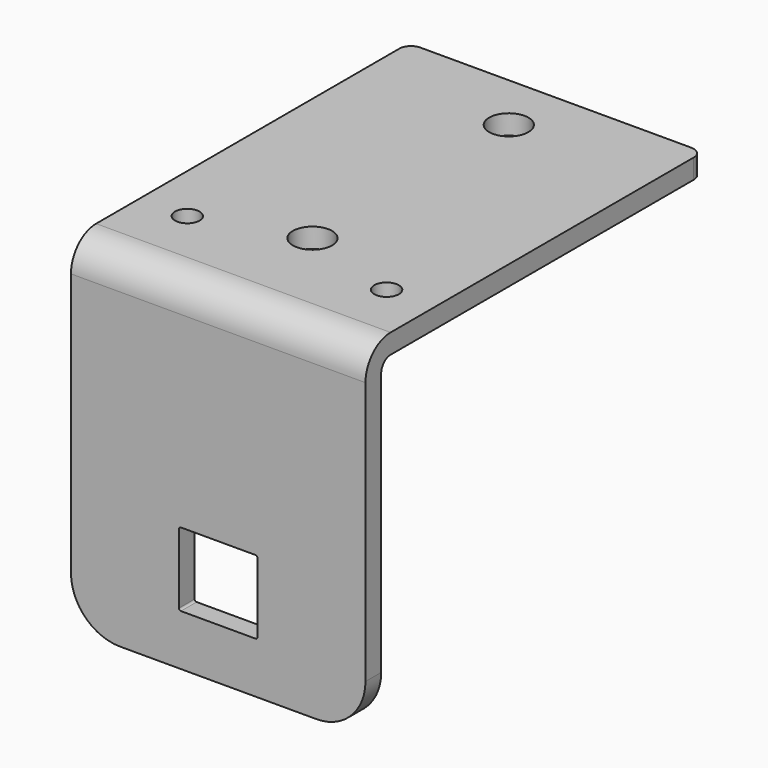
from build123d import *

# Parameters (mm, degrees)
F1_DEPTH = 38.1
F2_R     = 1.524
F3_R     = 1.5875
F3_R_2   = 2.54
F4_DEPTH = 2.54
F6_DEPTH = 2.54
F7_R     = 6.35


with BuildPart() as f1:
    # F0 (on Right) → F1 (new body)
    with BuildSketch(Plane.YZ):
        with BuildLine():
            Line((-54.864, 1.016), (-52.324, 1.016))
            Line((-52.324, 1.016), (-52.324, 41.402))
            ThreePointArc((-52.324, 41.402), (-51.877631, 42.479631), (-50.8, 42.926))
            Line((-50.8, 42.926), (-0.254, 42.926))
            Line((-0.254, 42.926), (-0.254, 45.466))
            Line((-0.254, 45.466), (-50.8, 45.466))
            ThreePointArc((-50.8, 45.466), (-53.673682, 44.275682), (-54.864, 41.402))
            Line((-54.864, 41.402), (-54.864, 1.016))
        make_face()
    extrude(amount=F1_DEPTH)

    # F2
    f2_edges = [f1.edges().sort_by_distance(p)[0] for p in [
        (0, -0.254, 44.196),
        (38.1, -0.254, 44.196),
    ]]
    fillet(f2_edges, radius=F2_R)

    # F3 (on face) → F4 (cut, through all)
    with BuildSketch(Plane(origin=(0, 0, 42.926), x_dir=(1, 0, 0), z_dir=(0, 0, -1))):
        with Locations((6.1595, 43.7515)):
            Circle(F3_R)
        with Locations((19.05, 39.624)):
            Circle(F3_R_2)
        with Locations((31.9405, 43.7515)):
            Circle(F3_R)
        with Locations((19.05, 7.874)):
            Circle(F3_R_2)
    extrude(amount=-F4_DEPTH, mode=Mode.SUBTRACT)

    # F5 (on face) → F6 (cut, through all)
    with BuildSketch(Plane.XZ.offset(54.864)):
        with BuildLine():
            ThreePointArc((13.97, 7.874), (14.044395, 7.694395), (14.224, 7.62))
            Line((14.224, 7.62), (23.876, 7.62))
            ThreePointArc((23.876, 7.62), (24.055605, 7.694395), (24.13, 7.874))
            Line((24.13, 7.874), (24.13, 16.891))
            ThreePointArc((24.13, 16.891), (24.055605, 17.070605), (23.876, 17.145))
            Line((23.876, 17.145), (14.224, 17.145))
            ThreePointArc((14.224, 17.145), (14.044395, 17.070605), (13.97, 16.891))
            Line((13.97, 16.891), (13.97, 7.874))
        make_face()
    extrude(amount=-F6_DEPTH, mode=Mode.SUBTRACT)

    # F7
    f7_edges = [f1.edges().sort_by_distance(p)[0] for p in [
        (38.1, -53.594, 1.016),
        (0, -53.594, 1.016),
    ]]
    fillet(f7_edges, radius=F7_R)


solid = f1.part
